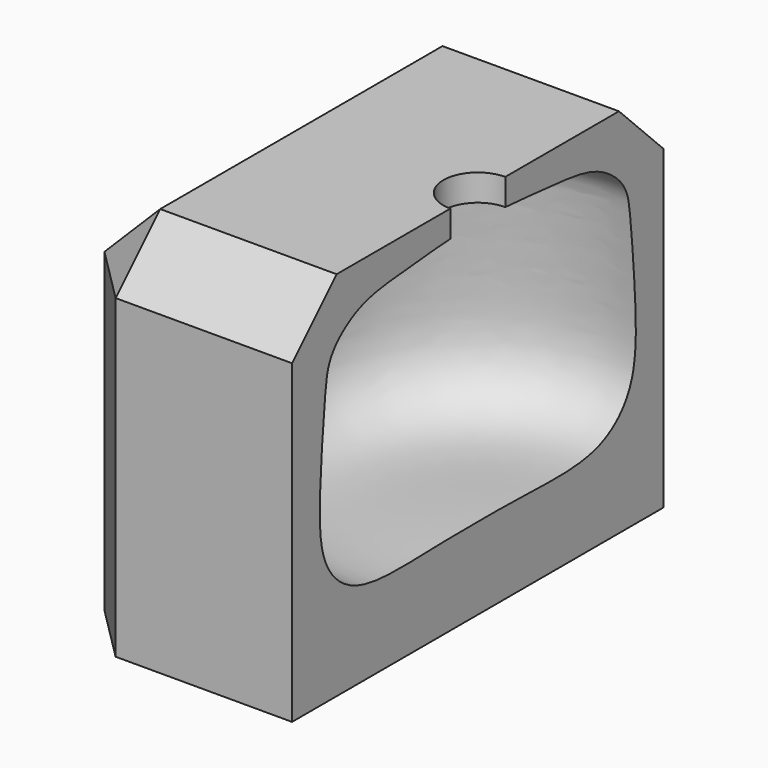
from build123d import *

# Parameters (mm, degrees)
F0_W     = 50
F0_H     = 50
F1_DEPTH = 40
F2_SIZE  = 6
F3_W     = 83.7730430067
F3_H     = 50.7384873927
F4_DEPTH = 25


with BuildPart() as f1:
    # F0 (on Top) → F1 (new body)
    with BuildSketch(Plane.XY):
        Rectangle(F0_W, F0_H)
    extrude(amount=F1_DEPTH)

    # F2
    f2_edges = [f1.edges().sort_by_distance(p)[0] for p in [
        (0, -25, 40),
        (25, 0, 40),
        (0, 25, 40),
        (-25, 0, 40),
        (25, -25, 20),
        (25, 25, 20),
        (-25, -25, 20),
        (-25, 25, 20),
    ]]
    chamfer(f2_edges, length=F2_SIZE)

    # F3 (on Right) → F4 (cut)
    with BuildSketch(Plane.YZ):
        with Locations((1.3156887144, 25.3692436963)):
            Rectangle(F3_W, F3_H)
    extrude(amount=F4_DEPTH, mode=Mode.SUBTRACT)

    # F5 (on face) → F6 (revolve, cut)
    with BuildSketch(Plane.YZ):
        with BuildLine():
            add(Edge.make_bspline(
                [(0, 8.81283544), (-7.6750135049, 8.8968714699), (-15.6428759777, 7.7376163766), (-21.3710906151, 12.9309668683), (-21.3286430979, 20.6974018657), (-20.5851575354, 29.1049836415), (-20.0912714693, 32.8565548223), (-15.8713216928, 36.1712388493), (-10.2699402926, 36.5207207773), (-5.8143442687, 37.0119311275), (-3.7, 37.1318450321)],
                knots=[0, 0, 0, 0, 0.1841228893, 0.2950075682, 0.4215719078, 0.5555240151, 0.642229878, 0.7414659734, 0.8575719069, 0.9488735314, 0.9488735314, 0.9488735314, 0.9488735314], degree=3))
            Line((0, 8.81283544), (0, 37.2170992196))
            add(Edge.make_bspline(
                [(-3.7, 37.1318450321), (-2.5160237402, 37.1989936126), (-1.2840796224, 37.235939493), (0, 37.2170992196)],
                knots=[0.9488735314, 0.9488735314, 0.9488735314, 0.9488735314, 1, 1, 1, 1], degree=3))
        make_face()
        with BuildLine():
            Line((-3.7, 40), (-3.7, 37.1318450321))
            add(Edge.make_bspline(
                [(-3.7, 37.1318450321), (-2.5160237402, 37.1989936126), (-1.2840796224, 37.235939493), (0, 37.2170992196)],
                knots=[0.9488735314, 0.9488735314, 0.9488735314, 0.9488735314, 1, 1, 1, 1], degree=3))
            Line((0, 37.2170992196), (0, 40))
            Line((0, 40), (-3.7, 40))
        make_face()
    revolve(axis=Axis((0, 0, 24.40641772), (0, 0, -1)), mode=Mode.SUBTRACT)


solid = f1.part
